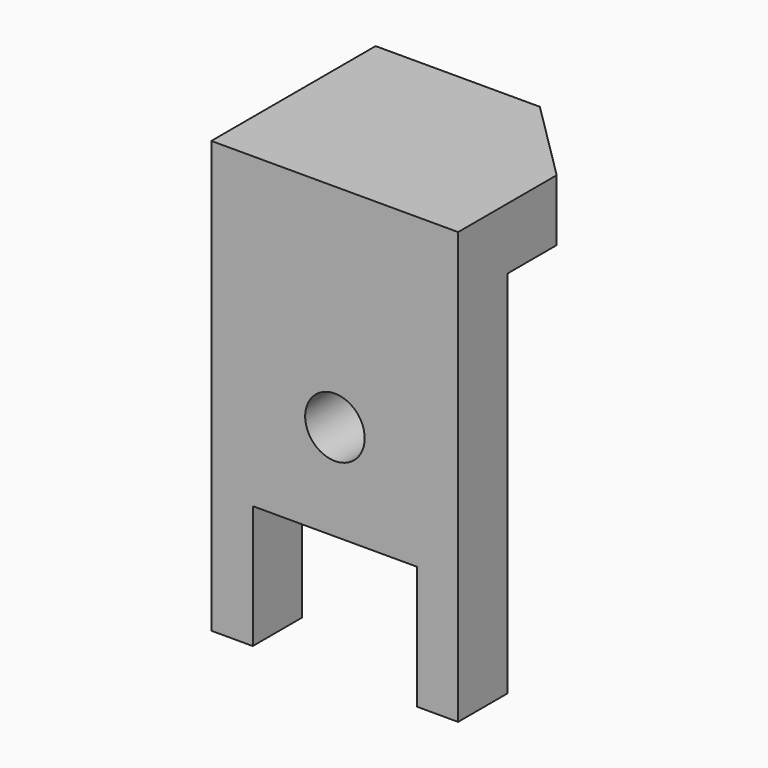
from build123d import *

# Parameters (mm, degrees)
F1_DEPTH = 19.05
F2_R     = 9.20198
F3_DEPTH = 19.05
F5_DEPTH = 19.05


with BuildPart() as f1:
    # F0 (on Front) → F1 (new body)
    with BuildSketch(Plane.XZ):
        Polygon((38.1, 48.757284), (-38.1, 48.757284), (-38.1, -65.542716), (-25.4, -65.542716), (-25.4, -27.442716), (25.4, -27.442716), (25.4, -65.542716), (38.1, -65.542716), align=None)
    extrude(amount=F1_DEPTH)

    # F2 (on face) → F3 (cut)
    with BuildSketch(Plane.XZ.offset(19.05)):
        with Locations((0, 2.275284)):
            Circle(F2_R)
    extrude(amount=-F3_DEPTH, mode=Mode.SUBTRACT)

    # F4 (on face) → F5 (join)
    with BuildSketch(Plane.XY.offset(48.757284)):
        Polygon((-38.222246, 44.45), (-38.222246, -19.05), (38.1, -19.05), (38.1, 19.05), (12.577754, 44.45), align=None)
    extrude(amount=F5_DEPTH)


solid = f1.part
